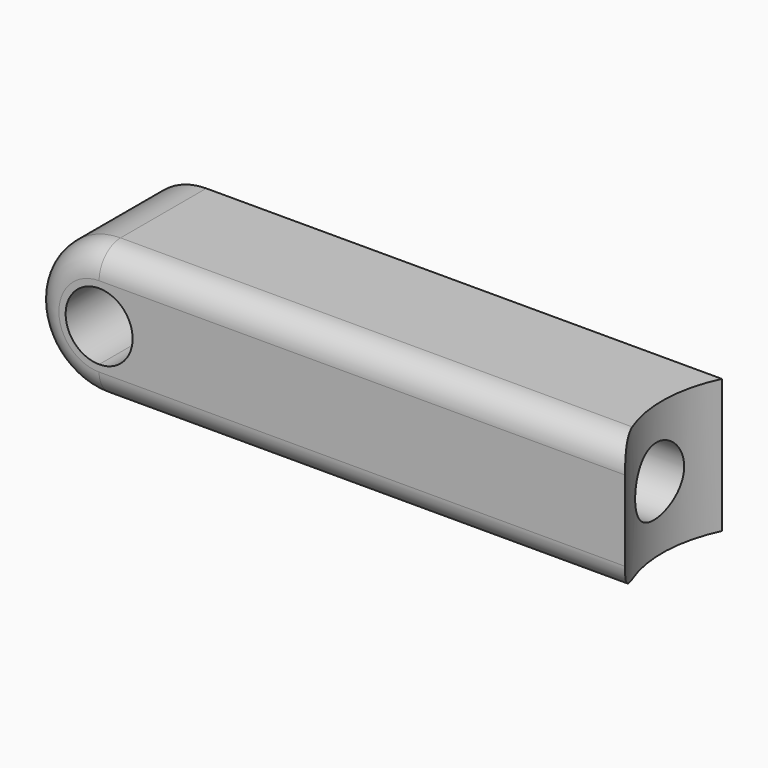
from build123d import *

# Parameters (mm, degrees)
F1_DEPTH = 12.7
F2_R     = 2.54
F3_R     = 3.175
F4_DEPTH = 50.8
F5_R     = 12.7
F6_DEPTH = 38.1


with BuildPart() as f1:
    # F0 (on Front) → F1 (new body)
    with BuildSketch(Plane.XZ):
        with BuildLine():
            ThreePointArc((-50.8, -6.35), (-46.3098719395, -4.4901280605), (-44.45, 0))
            ThreePointArc((-44.45, 0), (-46.3098719395, 4.4901280605), (-50.8, 6.35))
            Line((-50.8, 6.35), (-50.8, 3.175))
            ThreePointArc((-50.8, 3.175), (-48.5549359697, 2.2450640303), (-47.625, 0))
            ThreePointArc((-47.625, 0), (-48.5549359697, -2.2450640303), (-50.8, -3.175))
            Line((-50.8, -3.175), (-50.8, -6.35))
        make_face()
        with BuildLine():
            ThreePointArc((-50.8, 6.35), (-46.3098719395, 4.4901280605), (-44.45, 0))
            ThreePointArc((-44.45, 0), (-46.3098719395, -4.4901280605), (-50.8, -6.35))
            Line((-50.8, -6.35), (0, -6.35))
            Line((0, -6.35), (0, 6.35))
            Line((0, 6.35), (-50.8, 6.35))
        make_face()
        with BuildLine():
            Line((-50.8, 3.175), (-50.8, 6.35))
            ThreePointArc((-50.8, 6.35), (-57.15, 0), (-50.8, -6.35))
            Line((-50.8, -6.35), (-50.8, -3.175))
            ThreePointArc((-50.8, -3.175), (-53.975, 0), (-50.8, 3.175))
        make_face()
    extrude(amount=F1_DEPTH)

    # F2
    f2_edges = [f1.edges().sort_by_distance(p)[0] for p in [
        (-25.4, -12.7, -6.35),
    ]]
    fillet(f2_edges, radius=F2_R)

    # F3 (on Right) → F4 (cut, symmetric)
    with BuildSketch(Plane.YZ):
        with Locations((-6.35, 0)):
            Circle(F3_R)
    extrude(amount=F4_DEPTH, both=True, mode=Mode.SUBTRACT)

    # F5 (on Top) → F6 (cut, symmetric)
    with BuildSketch(Plane.XY):
        with Locations((9.5227770507, -5.5082733743)):
            Circle(F5_R)
    extrude(amount=F6_DEPTH, both=True, mode=Mode.SUBTRACT)


solid = f1.part
